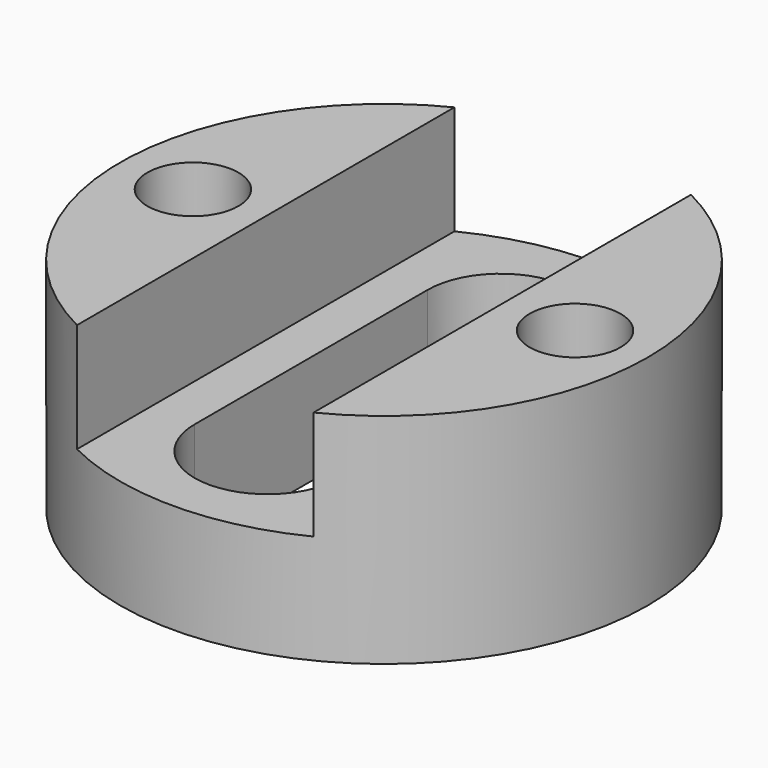
from build123d import *

# Parameters (mm, degrees)
F0_R     = 14.5
F1_DEPTH = 12
F2_R     = 2.5
F3_DEPTH = 6


with BuildPart() as f1:
    # F0 (on Top) → F1 (new body)
    with BuildSketch(Plane.XY):
        Circle(F0_R)
        with BuildLine():
            Line((-4, -8), (-4, 8))
            ThreePointArc((-4, 8), (0, 12), (4, 8))
            Line((4, 8), (4, -8))
            ThreePointArc((4, -8), (0, -12), (-4, -8))
        make_face(mode=Mode.SUBTRACT)
    extrude(amount=F1_DEPTH)

    # F2 (on face) → F3 (cut)
    with BuildSketch(Plane.XY.offset(12)):
        with Locations((-10.5, 0)):
            Circle(F2_R)
        with Locations((10.5, 0)):
            Circle(F2_R)
        with BuildLine():
            ThreePointArc((6.5, 12.9614813968), (0, 14.5), (-6.5, 12.9614813968))
            Line((-6.5, 12.9614813968), (-6.5, -12.9614813968))
            ThreePointArc((-6.5, -12.9614813968), (0, -14.5), (6.5, -12.9614813968))
            Line((6.5, -12.9614813968), (6.5, 12.9614813968))
        make_face()
        with BuildLine():
            ThreePointArc((4, -8), (0, -12), (-4, -8))
            Line((-4, -8), (-4, 8))
            ThreePointArc((-4, 8), (0, 12), (4, 8))
            Line((4, 8), (4, -8))
        make_face(mode=Mode.SUBTRACT)
    extrude(amount=-F3_DEPTH, mode=Mode.SUBTRACT)


solid = f1.part
